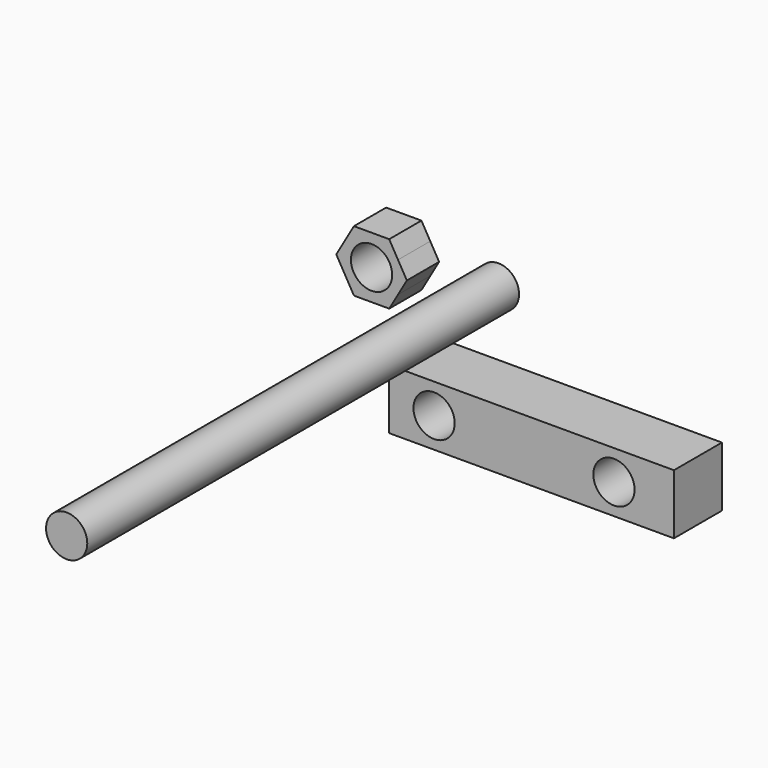
from build123d import *

# Parameters (mm, degrees)
F0_R     = 17.4625
F1_DEPTH = 50.8
F2_R     = 17.4625
F3_DEPTH = 34.13125
F4_R     = 17.4625
F5_DEPTH = 457.2


with BuildPart() as f1:
    # F0 (on Front) → F1 (new body)
    with BuildSketch(Plane.XZ):
        Polygon((127, -12.7), (-114.3, -12.7), (-114.3, -63.5), (12.7, -63.5), (127, -63.5), align=None)
        with Locations((-76.2, -38.1)):
            Circle(F0_R, mode=Mode.SUBTRACT)
        with Locations((76.2, -38.1)):
            Circle(F0_R, mode=Mode.SUBTRACT)
    extrude(amount=F1_DEPTH)


with BuildPart() as f3:
    # F2 (on Front) → F3 (new body)
    with BuildSketch(Plane.XZ):
        with BuildLine():
            Line((-127.5423804553, 18.2300350483), (-120.065218545, 31.1808593733))
            ThreePointArc((-120.065218545, 31.1808593733), (-129.5458803928, 21.7001979535), (-142.4967050552, 18.2300350483))
            Line((-142.4967050552, 18.2300350483), (-127.5423804553, 18.2300350483))
        make_face()
        with BuildLine():
            ThreePointArc((-120.0652182506, 57.0825102133), (-117.4776324014, 50.8355254599), (-116.5950550552, 44.1316850483))
            ThreePointArc((-116.5950550552, 44.1316850483), (-117.4776324776, 37.4278443523), (-120.065218545, 31.1808593733))
            Line((-120.065218545, 31.1808593733), (-112.5880558553, 44.1316850483))
            Line((-112.5880558553, 44.1316850483), (-120.0652182506, 57.0825102133))
        make_face()
        with BuildLine():
            ThreePointArc((-142.4967050552, 70.0333350483), (-129.5458801377, 66.5631719959), (-120.0652182506, 57.0825102133))
            Line((-120.0652182506, 57.0825102133), (-127.5423804553, 70.0333350483))
            Line((-127.5423804553, 70.0333350483), (-142.4967050552, 70.0333350483))
        make_face()
        with BuildLine():
            ThreePointArc((-164.9281916513, 57.0825105746), (-155.4475297921, 66.5631721002), (-142.4967050552, 70.0333350483))
            Line((-142.4967050552, 70.0333350483), (-157.4510296552, 70.0333350483))
            Line((-157.4510296552, 70.0333350483), (-164.9281916513, 57.0825105746))
        make_face()
        with BuildLine():
            ThreePointArc((-164.9281923793, 31.180860783), (-168.3983550552, 44.1316857764), (-164.9281916513, 57.0825105746))
            Line((-164.9281916513, 57.0825105746), (-172.4053542551, 44.1316850483))
            Line((-172.4053542551, 44.1316850483), (-164.9281923793, 31.180860783))
        make_face()
        with BuildLine():
            Line((-157.4510296552, 18.2300350483), (-142.4967050552, 18.2300350483))
            ThreePointArc((-142.4967050552, 18.2300350483), (-155.4475304226, 21.7001983605), (-164.9281923793, 31.180860783))
            Line((-164.9281923793, 31.180860783), (-157.4510296552, 18.2300350483))
        make_face()
        with BuildLine():
            ThreePointArc((-120.065218545, 31.1808593733), (-117.4776324776, 37.4278443523), (-116.5950550552, 44.1316850483))
            ThreePointArc((-116.5950550552, 44.1316850483), (-117.4776324014, 50.8355254599), (-120.0652182506, 57.0825102133))
            ThreePointArc((-120.0652182506, 57.0825102133), (-129.5458801377, 66.5631719959), (-142.4967050552, 70.0333350483))
            ThreePointArc((-142.4967050552, 70.0333350483), (-155.4475297921, 66.5631721002), (-164.9281916513, 57.0825105746))
            ThreePointArc((-164.9281916513, 57.0825105746), (-168.3983550552, 44.1316857764), (-164.9281923793, 31.180860783))
            ThreePointArc((-164.9281923793, 31.180860783), (-155.4475304226, 21.7001983605), (-142.4967050552, 18.2300350483))
            ThreePointArc((-142.4967050552, 18.2300350483), (-129.5458803928, 21.7001979535), (-120.065218545, 31.1808593733))
        make_face()
        with Locations((-142.4967050552, 44.1316850483)):
            Circle(F2_R, mode=Mode.SUBTRACT)
    extrude(amount=F3_DEPTH)


with BuildPart() as f5:
    # F4 (on Front) → F5 (new body)
    with BuildSketch(Plane.XZ):
        with Locations((-62.3364560306, 41.9916026294)):
            Circle(F4_R)
    extrude(amount=F5_DEPTH)


solid = Compound([f1.part, f3.part, f5.part])
